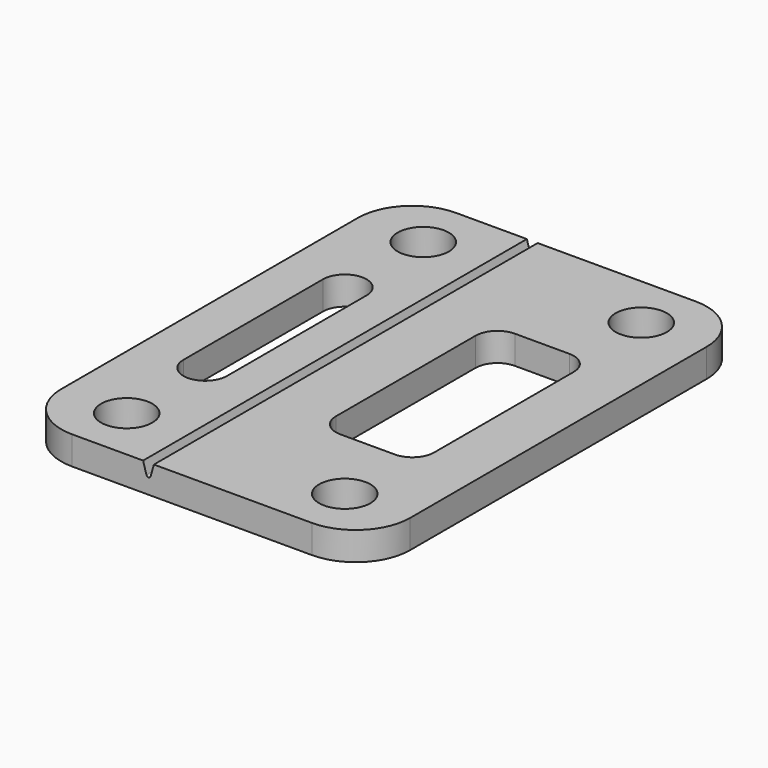
from build123d import *

# Parameters (mm, degrees)
F0_W     = 32
F0_H     = 44
F1_DEPTH = 2.6
F2_R     = 2.35
F3_DEPTH = 2.6
F5_DEPTH = 44.001
F6_R     = 5
F8_DEPTH = 2.601


with BuildPart() as f1:
    # F0 (on Top) → F1 (new body)
    with BuildSketch(Plane.XY):
        with Locations((16, -22)):
            Rectangle(F0_W, F0_H)
    extrude(amount=F1_DEPTH)

    # F2 (on face) → F3 (cut, through all)
    with BuildSketch(Plane.XY.offset(2.6)):
        with Locations((6, -5)):
            Circle(F2_R)
        with Locations((6, -39)):
            Circle(F2_R)
        with Locations((26, -39)):
            Circle(F2_R)
        with Locations((26, -5)):
            Circle(F2_R)
    extrude(amount=-F3_DEPTH, mode=Mode.SUBTRACT)

    # F4 (on face) → F5 (cut, through all)
    with BuildSketch(Plane.XZ.offset(44)):
        with BuildLine():
            Line((12.494805, 2.6), (11.505195, 2.6))
            Line((11.505195, 2.6), (11.807748, 1.544873))
            ThreePointArc((11.807748, 1.544873), (12, 1.4), (12.192252, 1.544873))
            Line((12.192252, 1.544873), (12.494805, 2.6))
        make_face()
    extrude(amount=-F5_DEPTH, mode=Mode.SUBTRACT)

    # F6
    f6_edges = [f1.edges().sort_by_distance(p)[0] for p in [
        (0, -44, 1.3),
        (32, -44, 1.3),
        (32, 0, 1.3),
        (0, 0, 1.3),
    ]]
    fillet(f6_edges, radius=F6_R)

    # F7 (on face) → F8 (cut, through all)
    with BuildSketch(Plane.XY.offset(2.6)):
        with BuildLine():
            Line((8, -30), (8, -14))
            ThreePointArc((8, -14), (6, -12), (4, -14))
            Line((4, -14), (4, -30))
            ThreePointArc((4, -30), (6, -32), (8, -30))
        make_face()
        with BuildLine():
            Line((25, -12), (20, -12))
            ThreePointArc((20, -12), (18.585786, -12.585786), (18, -14))
            Line((18, -14), (18, -30))
            ThreePointArc((18, -30), (18.585786, -31.414214), (20, -32))
            Line((20, -32), (25, -32))
            ThreePointArc((25, -32), (26.414214, -31.414214), (27, -30))
            Line((27, -30), (27, -14))
            ThreePointArc((27, -14), (26.414214, -12.585786), (25, -12))
        make_face()
    extrude(amount=-F8_DEPTH, mode=Mode.SUBTRACT)


solid = f1.part
